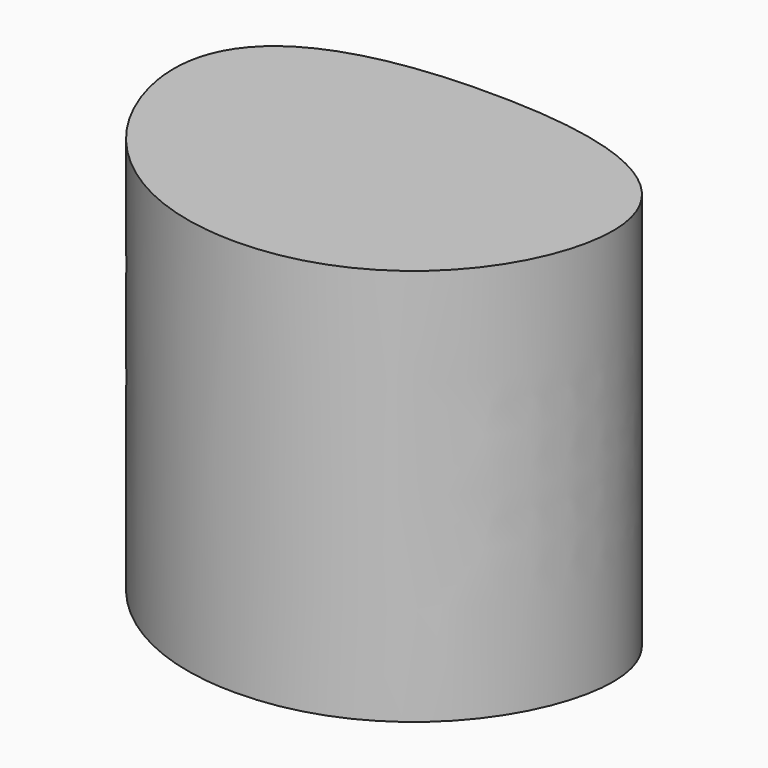
from build123d import *

# Parameters (mm, degrees)
F1_DEPTH = 41.148


with BuildPart() as f1:
    # F0 (on Top) → F1 (new body)
    with BuildSketch(Plane.XY):
        with BuildLine():
            add(Edge.make_bspline(
                [(0, 0), (-11.979255, 0), (-28.097513, 16.614362), (-20.669527, 33.228724), (0, 33.228724)],
                knots=[0, 0, 0, 0, 27.737401, 55.474802, 55.474802, 55.474802, 55.474802], degree=3))
            add(Edge.make_bspline(
                [(0, 0), (11.979255, 0), (28.097513, 16.614362), (20.669527, 33.228724), (0, 33.228724)],
                knots=[0, 0, 0, 0, 27.737401, 55.474802, 55.474802, 55.474802, 55.474802], degree=3))
        make_face()
    extrude(amount=F1_DEPTH)


solid = f1.part
